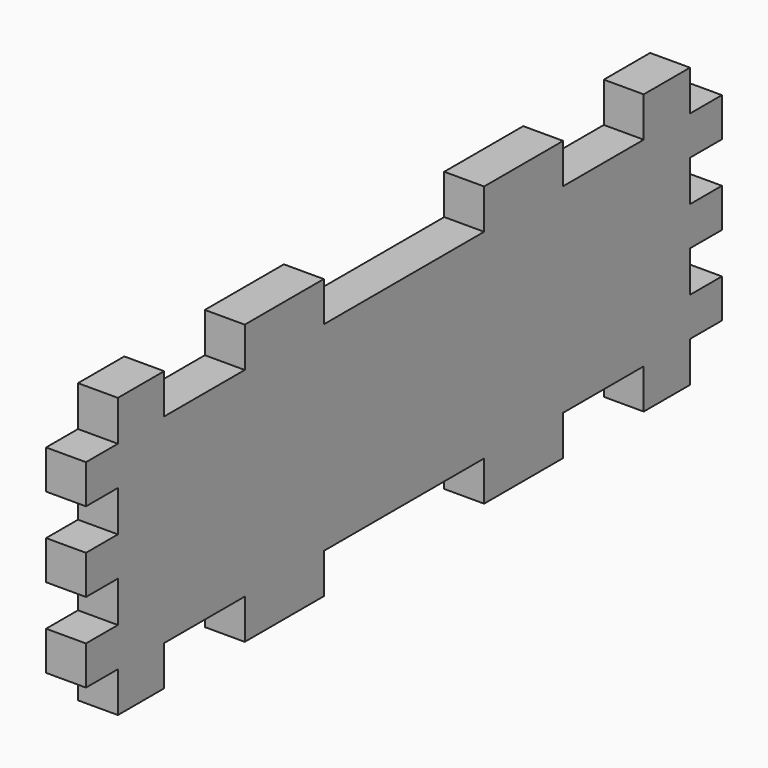
from build123d import *

# Parameters (mm, degrees)
F1_DEPTH = 10


with BuildPart() as f1:
    # F0 (on Right) → F1 (new body)
    with BuildSketch(Plane.YZ):
        Polygon((-99.625, -24.875), (-89.625, -24.875), (-89.625, -35), (-75.125, -35), (-75.125, -25), (-49.875, -25), (-49.875, -35), (-25.125, -35), (-25.125, -25), (0, -25), (25.125, -25), (25.125, -35), (49.875, -35), (49.875, -25), (75.125, -25), (75.125, -35), (89.625, -35), (89.625, -24.875), (99.625, -24.875), (99.625, -15.125), (89.625, -15.125), (89.625, -4.875), (99.625, -4.875), (99.625, 0), (99.625, 4.875), (89.625, 4.875), (89.625, 15.125), (99.625, 15.125), (99.625, 24.875), (89.625, 24.875), (89.625, 35), (75.125, 35), (75.125, 25), (49.875, 25), (49.875, 35), (25.125, 35), (25.125, 25), (0, 25), (-25.125, 25), (-25.125, 35), (-49.875, 35), (-49.875, 25), (-75.125, 25), (-75.125, 35), (-89.625, 35), (-89.625, 24.875), (-99.625, 24.875), (-99.625, 15.125), (-89.625, 15.125), (-89.625, 4.875), (-99.625, 4.875), (-99.625, 0), (-99.625, -4.875), (-89.625, -4.875), (-89.625, -15.125), (-99.625, -15.125), align=None)
    extrude(amount=F1_DEPTH)


solid = f1.part
